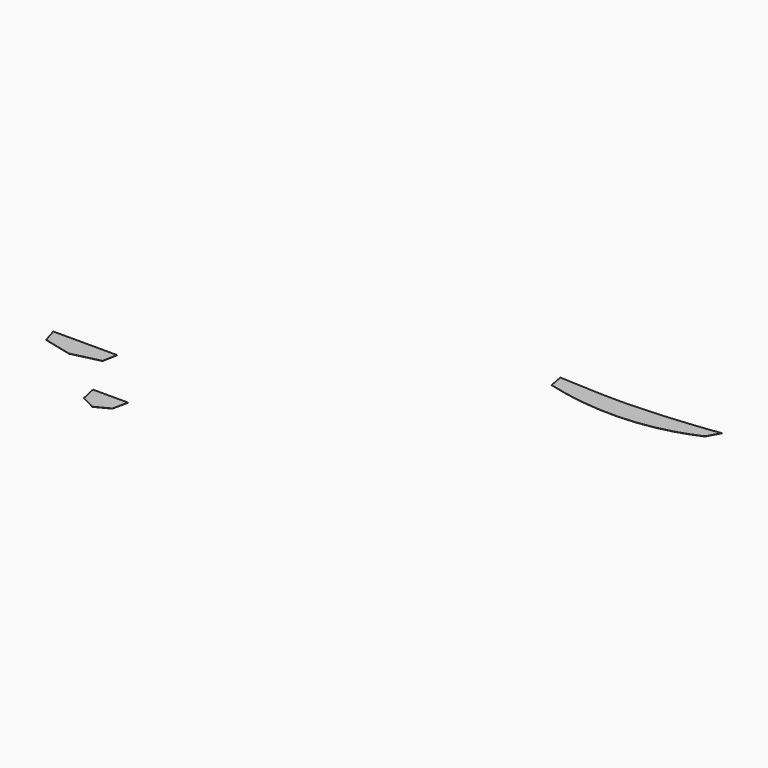
from build123d import *

# Parameters (mm, degrees)
F1_DEPTH = 3.175


with BuildPart() as f1:
    # F0 (on Top) → F1 (new body)
    with BuildSketch(Plane.XY):
        Polygon((478.3758758316, 182.9355446815), (-502.6991241684, 182.9355446815), (-436.5625, -39.3144553185), (0, -147.2644553185), (436.5625, -45.1450444118), align=None)
    extrude(amount=F1_DEPTH)


with BuildPart() as f1b:
    # F0 (on Top) → F1, piece 2 (new body)
    with BuildSketch(Plane.XY):
        Polygon((1355.0481769202, -700.8860598505), (814.5985533949, -700.8860598505), (866.2462137248, -939.0110598505), (1086.1635581172, -1052.187437497), (1303.4005165903, -939.0110598505), align=None)
    extrude(amount=F1_DEPTH)


with BuildPart() as f1c:
    # F0 (on Top) → F1, piece 3 (new body)
    with BuildSketch(Plane.XY):
        with BuildLine():
            add(Edge.make_bspline(
                [(5004.2643065248, 3054.4415440145), (5101.4069513777, 3050.4495410192), (5281.9379455615, 3040.3072252803), (5590.9966337127, 3026.4202168743), (5893.7548598436, 3015.825212992), (6198.2881476865, 3027.7397664991), (6502.6243242214, 3041.4868527125), (6810.0959489947, 3063.460409532), (7110.3376749352, 3098.3340122565), (7329.3139665379, 3120.3509502336), (7426.1650824293, 3138.1481291863)],
                knots=[0, 0, 0, 0, 0.1200056765, 0.2455584837, 0.370853828, 0.4959351742, 0.6212972289, 0.7469550661, 0.8725814469, 1, 1, 1, 1], degree=3))
            Line((5004.2643065248, 3054.4415440145), (5046.3500022888, 2836.2126350403))
            add(Edge.make_bspline(
                [(5046.3500022888, 2836.2126350403), (5434.8536215423, 2731.7176427074), (6389.7097788452, 2523.759898109), (7319.2846324672, 2946.9141755042)],
                knots=[0, 0, 0, 0, 2275.6288502577, 2275.6288502577, 2275.6288502577, 2275.6288502577], degree=3))
            Line((7319.2846324672, 2946.9141755042), (7426.1650824293, 3138.1481291863))
        make_face()
    extrude(amount=F1_DEPTH)


solid = Compound([f1.part, f1b.part, f1c.part])
